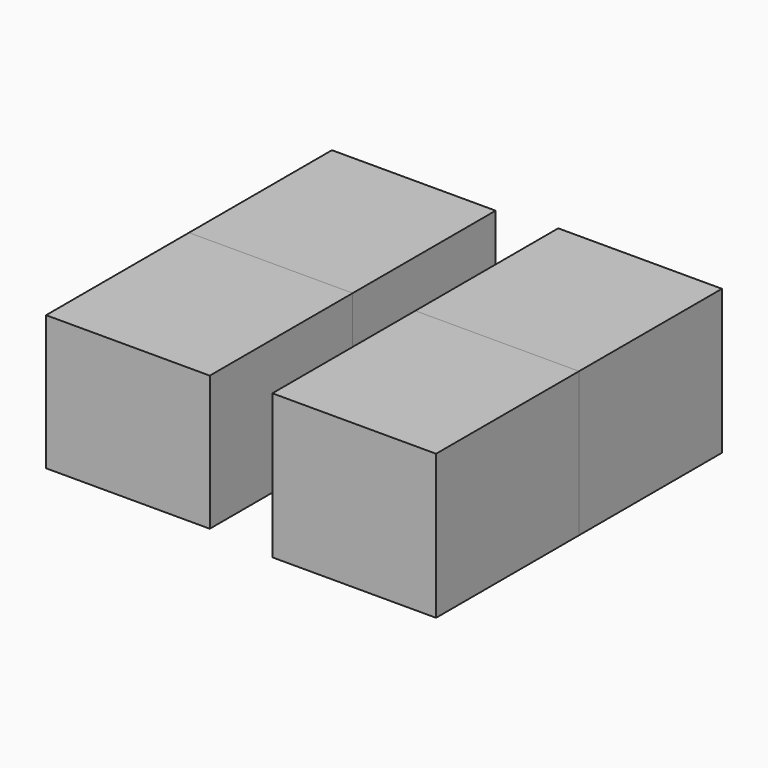
from build123d import *

# Parameters (mm, degrees)
F5_W        = 23.273744
F5_H        = 20.53564
F4_W        = 23.273721
F4_H        = 19.166596
F7_DEPTH    = 25.4
F8_DEPTH    = 25.4
F7_FACE_W   = 23.273722
F7_FACE_H   = 19.166596
F7_FACE_W_2 = 23.273743
F7_FACE_H_2 = 20.53564
F9_DEPTH    = 25.4


with BuildPart() as f7:
    # F5 (on Front) + F4 (on Front) → F7 (new body)
    with BuildSketch(Plane.XZ):
        with Locations((-70.861414, 18.369235)):
            Rectangle(F5_W, F5_H)
    with BuildSketch(Plane.XZ):
        with Locations((-103.033907, 18.369235)):
            Rectangle(F4_W, F4_H)
    extrude(amount=F7_DEPTH)


with BuildPart() as f8:
    # F4 (on Front) + F5 (on Front) → F8 (new body)
    with BuildSketch(Plane.XZ):
        with Locations((-103.033907, 18.369235)):
            Rectangle(F4_W, F4_H)
    with BuildSketch(Plane.XZ):
        with Locations((-70.861414, 18.369235)):
            Rectangle(F5_W, F5_H)
    extrude(amount=F8_DEPTH)


with BuildPart() as f9:
    # F7_face (on face) → F9 (new body)
    with BuildSketch(Plane(origin=(-103.033908, -25.4, 18.369235), x_dir=(1, 0, 0), z_dir=(0, -1, 0))):
        Rectangle(F7_FACE_W, F7_FACE_H)
        with Locations((32.172494, 0)):
            Rectangle(F7_FACE_W_2, F7_FACE_H_2)
    extrude(amount=F9_DEPTH)


solid = Compound([f7.part, f8.part, f9.part])
